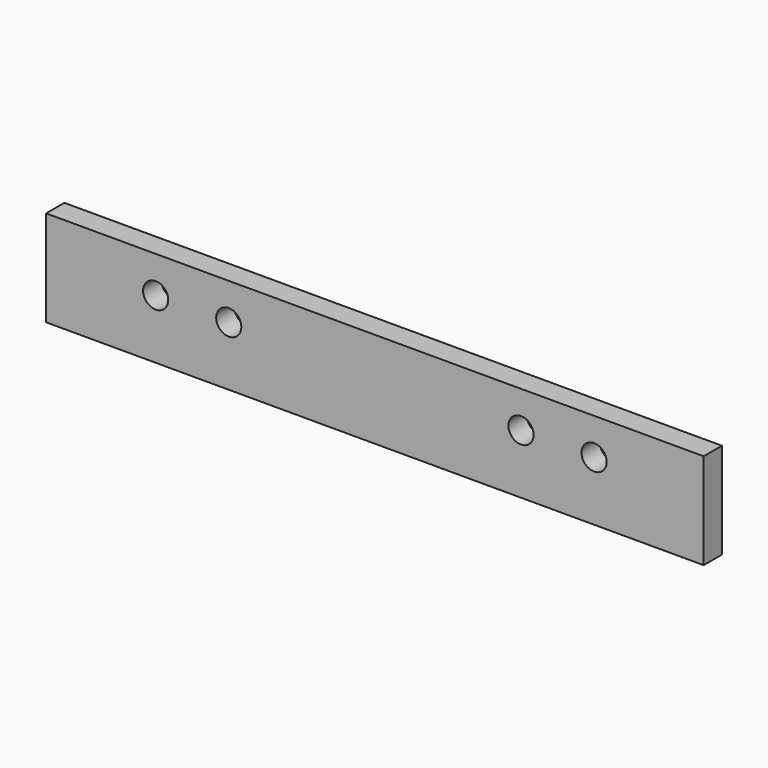
from build123d import *

# Parameters (mm, degrees)
F0_W     = 457.2
F0_H     = 66.675
F1_DEPTH = 15.875
F2_R     = 8.741685
F3_DEPTH = 15.876


with BuildPart() as f1:
    # F0 (on Front) → F1 (new body)
    with BuildSketch(Plane.XZ):
        Rectangle(F0_W, F0_H)
    extrude(amount=F1_DEPTH)

    # F2 (on face) → F3 (cut, through all)
    with BuildSketch(Plane.XZ.offset(15.875)):
        with Locations((-152.4, 7.9375)):
            Circle(F2_R)
        with Locations((-101.6, 7.9375)):
            Circle(F2_R)
        with Locations((101.6, 7.9375)):
            Circle(F2_R)
        with Locations((152.4, 7.9375)):
            Circle(F2_R)
    extrude(amount=-F3_DEPTH, mode=Mode.SUBTRACT)


solid = f1.part
